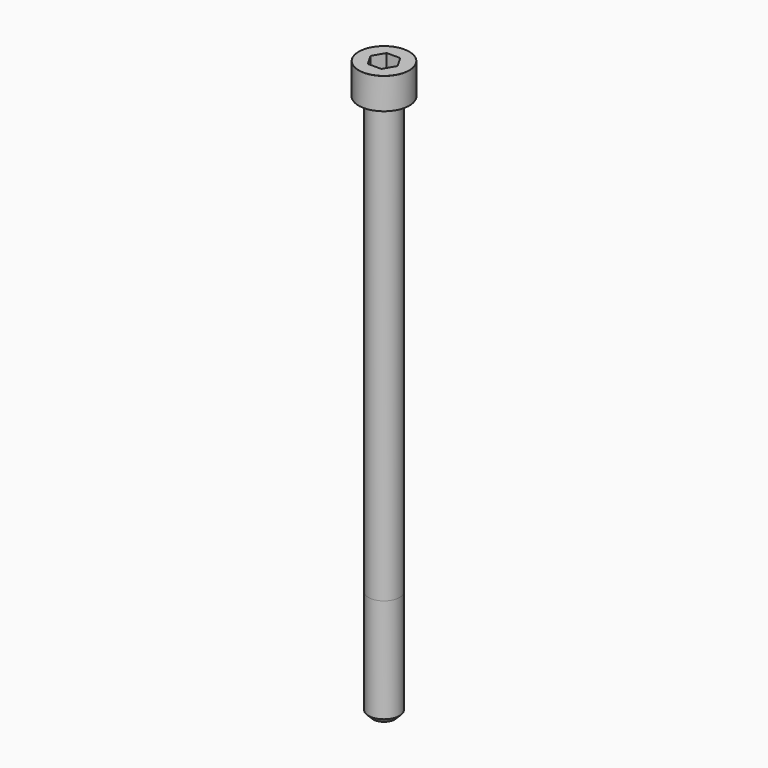
from build123d import *

# Parameters (mm, degrees)
POCKET_DEPTH = 6.06


with BuildPart() as part:
    # Sketch → Revolve (revolve)
    with BuildSketch(Plane.YZ):
        with BuildLine():
            Line((3.999, 0), (6.5, 0))
            Line((6.5, 0), (6.5, 7.97229))
            ThreePointArc((6.5, 7.97229), (6.491884, 7.991884), (6.47229, 8))
            Line((6.47229, 8), (0, 8))
            Line((0, -140), (0, 8))
            Line((2.75, -140), (0, -140))
            Line((4, -138.75), (2.75, -140))
            Line((4, -112), (4, -138.75))
            Line((3.999, 0), (4, -112))
        make_face()
    revolve(axis=Axis((0, 0, 0), (0, 0, 1)))

    # Sketch001 → Pocket (cut)
    with BuildSketch(Plane.XY.offset(8)):
        Polygon((3.498743, 0), (1.749371, 3.03), (-1.749371, 3.03), (-3.498743, 0), (-1.749371, -3.03), (1.749371, -3.03), align=None)
    extrude(amount=-POCKET_DEPTH, mode=Mode.SUBTRACT)


solid = part.part
